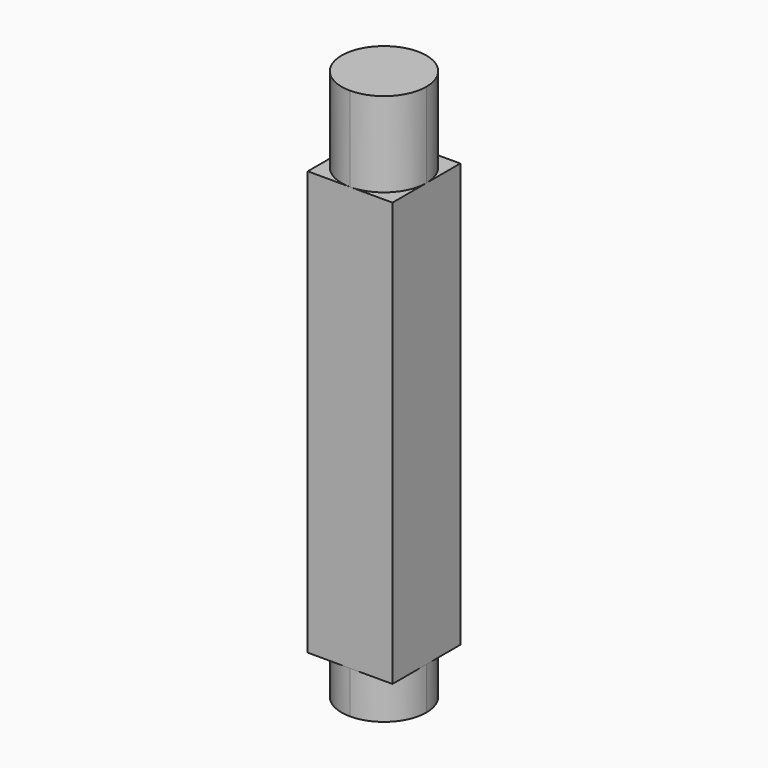
from build123d import *

# Parameters (mm, degrees)
F0_W     = 10
F0_H     = 10
F1_DEPTH = 25
F3_DEPTH = 5
F5_DEPTH = 10


with BuildPart() as f1:
    # F0 (on Top) → F1 (new body, symmetric)
    with BuildSketch(Plane.XY):
        Rectangle(F0_W, F0_H)
    extrude(amount=F1_DEPTH, both=True)

    # F2 (on face) → F3 (join)
    with BuildSketch(Plane(origin=(0, 0, -25), x_dir=(1, 0, 0), z_dir=(0, 0, -1))):
        with BuildLine():
            ThreePointArc((0, -5), (3.5355339059, -3.5355339059), (5, 0))
            ThreePointArc((5, 0), (3.5355339059, 3.5355339059), (0, 5))
            ThreePointArc((0, 5), (-3.5355339059, 3.5355339059), (-5, 0))
            ThreePointArc((-5, 0), (-3.5355339059, -3.5355339059), (0, -5))
        make_face()
    extrude(amount=F3_DEPTH)

    # F4 (on face) → F5 (join)
    with BuildSketch(Plane.XY.offset(25)):
        with BuildLine():
            ThreePointArc((0, -5), (3.5355339059, -3.5355339059), (5, 0))
            ThreePointArc((5, 0), (3.5355339059, 3.5355339059), (0, 5))
            ThreePointArc((0, 5), (-3.5355339059, 3.5355339059), (-5, 0))
            ThreePointArc((-5, 0), (-3.5355339059, -3.5355339059), (0, -5))
        make_face()
    extrude(amount=F5_DEPTH)


solid = f1.part
